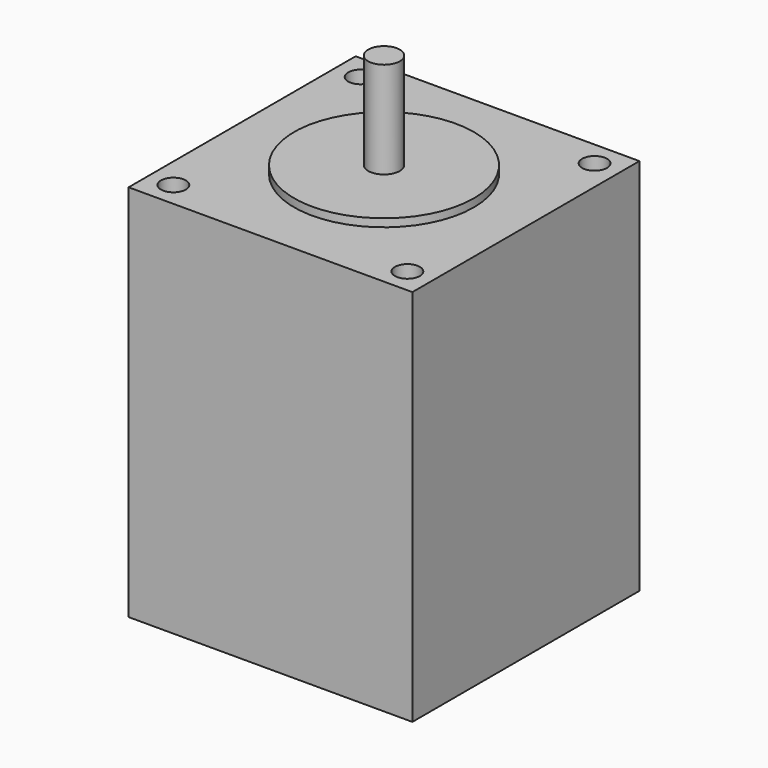
from build123d import *

# Parameters (mm, degrees)
F0_W     = 57
F0_H     = 57
F1_DEPTH = 76
F2_R     = 18.05
F2_R_2   = 3.175
F3_DEPTH = 1.6
F4_DEPTH = 21
F5_R     = 2.5
F6_DEPTH = 10


with BuildPart() as f1:
    # F0 (on Top) → F1 (new body)
    with BuildSketch(Plane.XY):
        Rectangle(F0_W, F0_H)
    extrude(amount=F1_DEPTH)

    # F2 (on face) → F3 (join)
    with BuildSketch(Plane.XY.offset(76)):
        Circle(F2_R)
        Circle(F2_R_2, mode=Mode.SUBTRACT)
    extrude(amount=F3_DEPTH)

    # F2 (on face) → F4 (join)
    with BuildSketch(Plane.XY.offset(76)):
        Circle(F2_R_2)
    extrude(amount=F4_DEPTH)

    # F5 (on face) → F6 (cut)
    with BuildSketch(Plane.XY.offset(76)):
        with Locations((-23.5, 23.5)):
            Circle(F5_R)
        with Locations((23.5, 23.5)):
            Circle(F5_R)
        with Locations((23.5, -23.5)):
            Circle(F5_R)
        with Locations((-23.5, -23.5)):
            Circle(F5_R)
    extrude(amount=-F6_DEPTH, mode=Mode.SUBTRACT)


solid = f1.part
